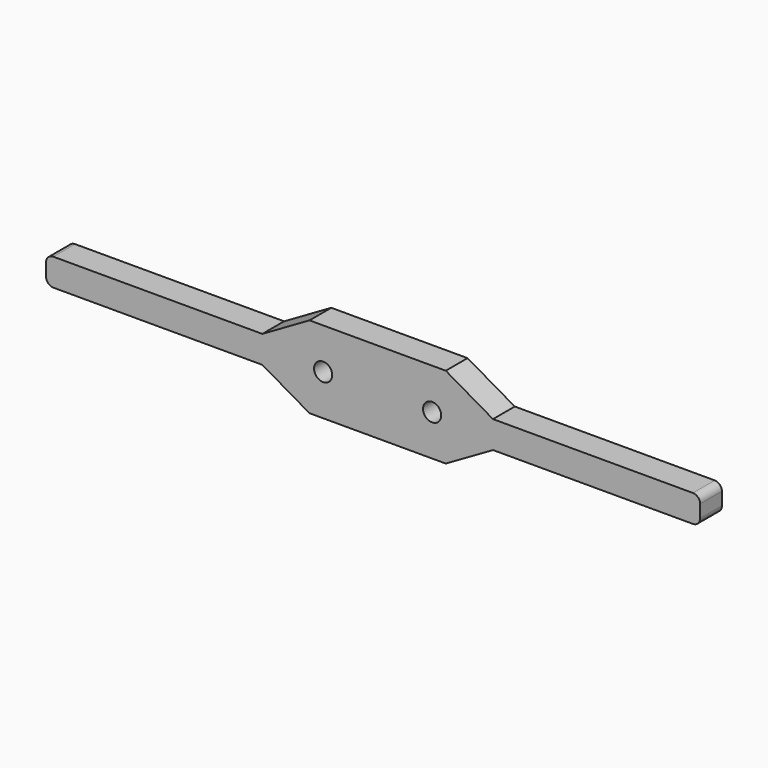
from build123d import *

# Parameters (mm, degrees)
F0_W     = 19.05
F0_H     = 19.05
F1_DEPTH = 19.05
F2_R     = 5.08


with BuildPart() as f1:
    # F0 (on Front) → F1 (new body)
    with BuildSketch(Plane.XZ):
        Polygon((3.502456, 19.05), (-147.651976, 19.05), (-147.651976, 0), (3.502456, 0), (36.498024, 0), (36.498024, 9.525), (36.498024, 19.05), align=None)
        Polygon((36.498024, 38.1), (3.502456, 19.05), (36.498024, 19.05), align=None)
        with Locations((46.023024, 28.575)):
            Rectangle(F0_W, F0_H)
        Polygon((36.498024, 0), (3.502456, 0), (36.498024, -19.05), align=None)
        Polygon((55.548024, 38.1), (55.548024, 19.05), (80.948024, 19.05), (112.698024, 19.05), (112.698024, 38.1), align=None)
        with Locations((46.023024, -9.525)):
            Rectangle(F0_W, F0_H)
        with Locations((122.223024, 28.575)):
            Rectangle(F0_W, F0_H)
        Polygon((80.948024, 0), (55.548024, 0), (55.548024, -19.05), (112.698024, -19.05), (112.698024, 0), align=None)
        Polygon((164.743591, 19.05), (131.748024, 38.1), (131.748024, 19.05), align=None)
        with Locations((122.223024, -9.525)):
            Rectangle(F0_W, F0_H)
        Polygon((164.743591, 19.05), (131.748024, 19.05), (131.748024, 9.525), (131.748024, 0), (164.743591, 0), (309.548024, 0), (309.548024, 19.05), align=None)
        Polygon((131.748024, 0), (131.748024, -19.05), (164.743591, 0), align=None)
        Polygon((80.948024, 19.05), (55.548024, 19.05), (55.548024, 9.525), (55.548024, 0), (80.948024, 0), align=None)
        Polygon((112.698024, 19.05), (80.948024, 19.05), (80.948024, 0), (112.698024, 0), (112.698024, 9.525), align=None)
        with BuildLine():
            Line((115.873024, 9.525), (112.698024, 9.525))
            Line((112.698024, 9.525), (112.698024, 0))
            Line((112.698024, 0), (131.748024, 0))
            Line((131.748024, 0), (131.748024, 9.525))
            Line((131.748024, 9.525), (128.573024, 9.525))
            ThreePointArc((128.573024, 9.525), (122.223024, 3.175), (115.873024, 9.525))
        make_face()
        with BuildLine():
            Line((55.548024, 19.05), (36.498024, 19.05))
            Line((36.498024, 19.05), (36.498024, 9.525))
            Line((36.498024, 9.525), (39.673024, 9.525))
            ThreePointArc((39.673024, 9.525), (46.023024, 15.875), (52.373024, 9.525))
            Line((52.373024, 9.525), (55.548024, 9.525))
            Line((55.548024, 9.525), (55.548024, 19.05))
        make_face()
        with BuildLine():
            Line((39.673024, 9.525), (36.498024, 9.525))
            Line((36.498024, 9.525), (36.498024, 0))
            Line((36.498024, 0), (55.548024, 0))
            Line((55.548024, 0), (55.548024, 9.525))
            Line((55.548024, 9.525), (52.373024, 9.525))
            ThreePointArc((52.373024, 9.525), (46.023024, 3.175), (39.673024, 9.525))
        make_face()
        with BuildLine():
            Line((131.748024, 19.05), (112.698024, 19.05))
            Line((112.698024, 19.05), (112.698024, 9.525))
            Line((112.698024, 9.525), (115.873024, 9.525))
            ThreePointArc((115.873024, 9.525), (122.223024, 15.875), (128.573024, 9.525))
            Line((128.573024, 9.525), (131.748024, 9.525))
            Line((131.748024, 9.525), (131.748024, 19.05))
        make_face()
    extrude(amount=F1_DEPTH)

    # F2
    f2_edges = [f1.edges().sort_by_distance(p)[0] for p in [
        (309.548024, -9.525, 19.05),
        (309.548024, -9.525, 0),
        (-147.651976, -9.525, 19.05),
        (-147.651976, -9.525, 0),
    ]]
    fillet(f2_edges, radius=F2_R)


solid = f1.part
